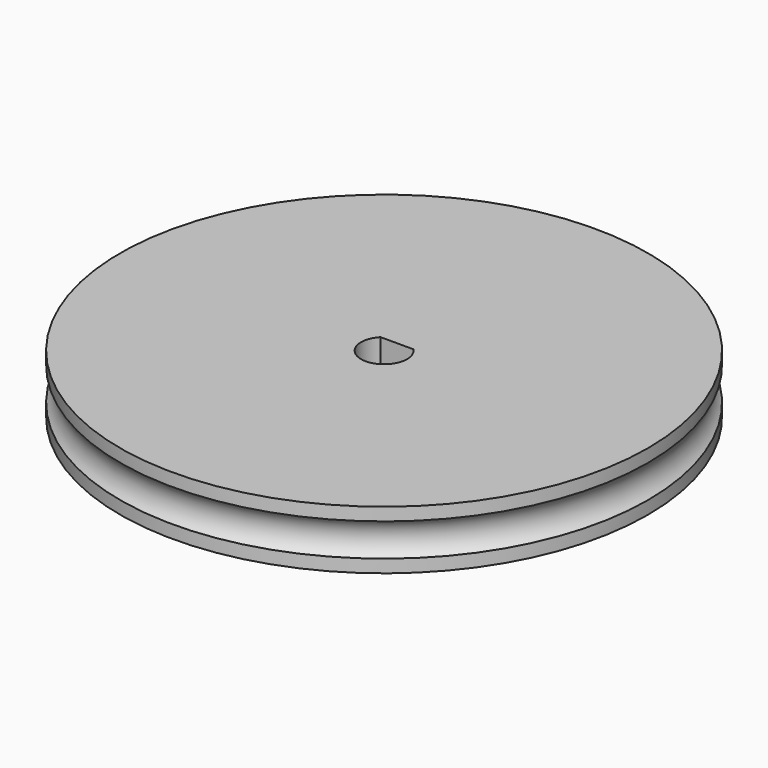
from build123d import *

# Parameters (mm, degrees)
TORUS002_R        = 1.5
BOX084016_W       = 10
BOX084016_H       = 10
BOX084016_DEPTH   = 12
CYLINDER028_R     = 1.57
CYLINDER028_DEPTH = 10
CYLINDER012_R     = 18
CYLINDER012_DEPTH = 4


with BuildPart() as torus002:
    # Torus002 → Torus002 (revolve)
    with BuildSketch(Plane(origin=(0, 0, 2), x_dir=(1, 0, 0), z_dir=(0, -1, 0))):
        with Locations((19, 0)):
            Circle(TORUS002_R)
    revolve(axis=Axis((0, 0, 2), (0, 0, 1)))


with BuildPart() as cube067:
    # Box084016 → Box084016 (new body)
    with BuildSketch(Plane(origin=(-5, 1.1, -1.5), x_dir=(1, 0, 0), z_dir=(0, 0, 1))):
        with Locations((5, 5)):
            Rectangle(BOX084016_W, BOX084016_H)
    extrude(amount=BOX084016_DEPTH)


with BuildPart() as cut057:
    # Cylinder028 → Cylinder028 (new body)
    with BuildSketch(Plane.XY.offset(-1)):
        Circle(CYLINDER028_R)
    extrude(amount=CYLINDER028_DEPTH)

    # Cut057: cut Cube067
    add(cube067.part, mode=Mode.SUBTRACT)


with BuildPart() as cut063:
    # Cylinder012 → Cylinder012 (new body)
    with BuildSketch(Plane.XY):
        Circle(CYLINDER012_R)
    extrude(amount=CYLINDER012_DEPTH)

    # Cut062: cut Cut057
    add(cut057.part, mode=Mode.SUBTRACT)

    # Cut063: cut Torus002
    add(torus002.part, mode=Mode.SUBTRACT)


with BuildPart() as cut063_1:
    # Cut063 placement: moved
    add(cut063.part.moved(Location((0, 0, -1))))


solid = cut063_1.part
